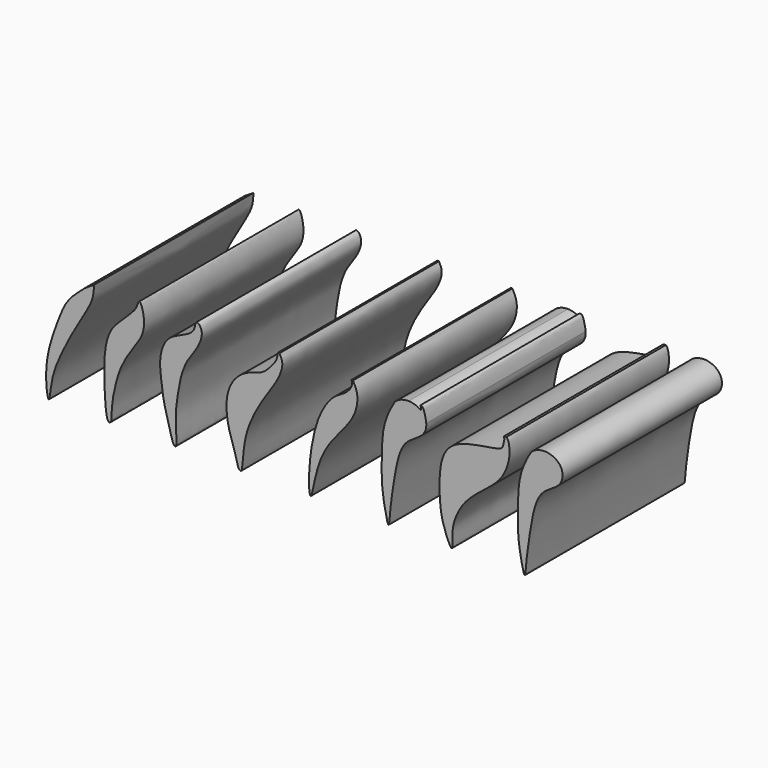
from build123d import *

# Parameters (mm, degrees)
F1_DEPTH = 100


with BuildPart() as f1:
    # F0 (on Front) → F1 (new body)
    with BuildSketch(Plane.XZ):
        with BuildLine():
            add(Edge.make_bspline(
                [(25.5741346627, 58), (26.2589779969, 56.7577294477), (27.910715962, 53.7609880199), (24.6626342032, 45.377314309), (18.6096341865, 37.0585035761), (12.3320952042, 26.8005020667), (8.2630159776, 15.9768924199), (7.3391535803, 6.6730465457), (6.7546467987, 0.010524349), (6.3428331116, -0.2278938983), (4.8045475946, -0.3205295155), (3.4254539284, 7.5072897068), (-0.6046011679, 17.2207248031), (-1.7124861098, 30.5713481522), (2.8905381396, 40.3868291903), (10.2046750861, 44.9644087063), (16.7899424332, 46.209579335), (20.4906142468, 49.7253554704), (23.4815286437, 53.4406232279), (24.1061615926, 54.8570770653), (24.5948787013, 56.6112866527), (24.7289741609, 57.5947558811), (24.750592187, 58)],
                knots=[0, 0, 0, 0, 0.0430484574, 0.1023065266, 0.1694973148, 0.2410021387, 0.3107164976, 0.3763065827, 0.4260262348, 0.4373130318, 0.4565333756, 0.5104272604, 0.5801350706, 0.6545666354, 0.7207534646, 0.7799279806, 0.8322242657, 0.8788082629, 0.9229425964, 0.9484576314, 0.9757704895, 1, 1, 1, 1], degree=3))
            Line((25.5741346627, 58), (24.750592187, 58))
        make_face()
    extrude(amount=F1_DEPTH)


with BuildPart() as f1b:
    # F0 (on Front) → F1, piece 2 (new body)
    with BuildSketch(Plane.XZ):
        with BuildLine():
            add(Edge.make_bspline(
                [(-15.1638528332, 58), (-14.3183641246, 57.4564787091), (-12.1957800205, 53.7753422118), (-16.4460960883, 45.2586939027), (-21.2015741198, 39.6233844542), (-24.3250495155, 30.8782720381), (-25.8281756765, 20.6349995466), (-26.9437462257, 12.2123870458), (-25.6029813152, -0.337263726), (-27.8493822142, -0.2110202709), (-30.0973698834, 9.4091570047), (-32.655422968, 17.8248855184), (-33.4948580907, 25.1714518319), (-34.3991238734, 31.5841779352), (-34.3542362796, 38.6535596746), (-31.4115485002, 46.2399746195), (-25.4532757534, 49.3210992688), (-20.8366380571, 51.074512827), (-16.7013927989, 54.0933069754), (-16.7999230417, 58.3521920126), (-15.6047452773, 58.2834271208), (-15.1638528332, 58)],
                knots=[0, 0, 0, 0, 0.0427690127, 0.1054206091, 0.162978175, 0.2256297884, 0.2916273709, 0.357192435, 0.426509371, 0.444010105, 0.5067150331, 0.5720494948, 0.6277003322, 0.6803638017, 0.7357404797, 0.7936936621, 0.8462362865, 0.89306145, 0.9389530723, 0.9776974733, 1, 1, 1, 1], degree=3))
        make_face()
    extrude(amount=F1_DEPTH)


with BuildPart() as f1c:
    # F0 (on Front) → F1, piece 3 (new body)
    with BuildSketch(Plane.XZ):
        with BuildLine():
            add(Edge.make_bspline(
                [(-44.695880264, 58), (-44.0333348094, 58.0514506615), (-42.0414356916, 52.3109476936), (-42.3890297506, 43.6364961869), (-48.4656660633, 35.9725426066), (-54.364303451, 26.1622514636), (-57.2092434141, 15.9602991131), (-58.9086657051, 5.9711423816), (-58.4909429156, -0.2363763838), (-61.3025483048, -0.5216727764), (-62.1461596693, 12.2762135161), (-62.487123232, 20.9935662968), (-62.0422168537, 33.7612819937), (-58.7121266474, 42.1305241936), (-53.2121811001, 47.0803069766), (-48.938925031, 51.4377005179), (-46.0987414206, 54.3880715757), (-45.2255758414, 57.9588659349), (-44.695880264, 58)],
                knots=[0, 0, 0, 0, 0.0522501972, 0.1212774991, 0.191717995, 0.2688076663, 0.3436109457, 0.4181777532, 0.4706197704, 0.4943188727, 0.5709517283, 0.6443507998, 0.7244369714, 0.7924484459, 0.8539389921, 0.9098614277, 0.9582267176, 1, 1, 1, 1], degree=3))
        make_face()
    extrude(amount=F1_DEPTH)


with BuildPart() as f1d:
    # F0 (on Front) → F1, piece 4 (new body)
    with BuildSketch(Plane.XZ):
        with BuildLine():
            add(Edge.make_bspline(
                [(-67.4195289612, 58), (-67.4839315315, 56.2128277838), (-67.8178441128, 51.901827265), (-70.8159069149, 45.7754936445), (-77.9159692905, 34.2148583409), (-83.5957450749, 23.1469062744), (-89.1466598636, 10.5535908166), (-89.7118057668, -1.703925442), (-91.2278463379, 2.2835407221), (-91.9518555978, 12.1401155151), (-90.0694061039, 24.0919526722), (-85.8295171261, 35.5546262197), (-81.7698366444, 46.424113915), (-75.0003900734, 52.4833533462), (-72.8395562071, 54.3597379192), (-72.0108300447, 55.0814382732)],
                knots=[0, 0, 0, 0, 0.061725326, 0.1287703564, 0.2225641724, 0.3142680639, 0.4142831062, 0.4910076281, 0.5244438307, 0.6058906047, 0.6967422878, 0.7866754537, 0.8744111275, 0.9502843706, 1, 1, 1, 1], degree=3))
            Line((-67.4195289612, 58), (-72.0108300447, 55.0814382732))
        make_face()
    extrude(amount=F1_DEPTH)


with BuildPart() as f1e:
    # F0 (on Front) → F1, piece 5 (new body)
    with BuildSketch(Plane.XZ):
        with BuildLine():
            add(Edge.make_bspline(
                [(62.4780133367, 58), (63.3699930678, 56.298139286), (65.4823505068, 52.2179681611), (63.5948494852, 42.0222916399), (56.047566957, 33.1436200276), (48.8780490033, 24.3447602685), (43.8805505478, 13.0301299731), (41.4726530197, -2.5959626325), (40.1577207036, 3.5393088267), (40.5978392545, 14.897597573), (42.3827523371, 27.1333093783), (45.861181713, 38.7715837375), (51.9861893031, 47.5881711447), (56.8699204706, 50.0396225174), (59.3449059353, 51.7308702659), (61.0007589529, 53.7226352936), (61.3920983617, 54.3919293677)],
                knots=[0, 0, 0, 0, 0.0596541687, 0.1346482647, 0.2168802744, 0.2968969758, 0.3874197563, 0.4695421995, 0.5083981289, 0.5917400474, 0.6779915465, 0.7623989593, 0.8400126268, 0.8943627074, 0.9426874829, 0.9641971705, 0.9641971705, 0.9641971705, 0.9641971705], degree=3))
            Line((62.4780133367, 58), (61.6970025003, 58))
            add(Edge.make_bspline(
                [(61.3920983617, 54.3919293677), (62.0434819806, 55.5059679395), (62.3660583453, 56.7746345533), (61.6970025003, 58)],
                knots=[0.9641971705, 0.9641971705, 0.9641971705, 0.9641971705, 1, 1, 1, 1], degree=3))
        make_face()
        with BuildLine():
            add(Edge.make_bspline(
                [(61.6970025003, 58), (62.238190319, 56.9048186501), (62.1517804278, 55.8522192245), (61.3920983617, 54.3919293677)],
                knots=[0, 0, 0, 0, 3.6209308502, 3.6209308502, 3.6209308502, 3.6209308502], degree=3))
            add(Edge.make_bspline(
                [(61.3920983617, 54.3919293677), (62.0434819806, 55.5059679395), (62.3660583453, 56.7746345533), (61.6970025003, 58)],
                knots=[0.9641971705, 0.9641971705, 0.9641971705, 0.9641971705, 1, 1, 1, 1], degree=3))
        make_face()
    extrude(amount=F1_DEPTH)


with BuildPart() as f1f:
    # F0 (on Front) → F1, piece 6 (new body)
    with BuildSketch(Plane.XZ):
        with BuildLine():
            add(Edge.make_bspline(
                [(90.3791714734, 58), (92.553272747, 57.9717829429), (94.9218128289, 57.1938016621), (96.6419279575, 55.8004453778)],
                knots=[0, 0, 0, 0, 0.0518914352, 0.0518914352, 0.0518914352, 0.0518914352], degree=3))
            add(Edge.make_bspline(
                [(99.2298681775, 50.9871448838), (99.3807148469, 49.3812257082), (98.3364106441, 44.6243885113), (89.9578540014, 41.2219816828), (85.3077102251, 33.6961578275), (82.8545184398, 19.7344626085), (80.9988193918, 6.7586668869), (80.5188131678, -3.2336346069), (77.8782148455, 9.0591881661), (76.7056937387, 18.2716360534), (76.8533267662, 32.0748616611), (77.6058850757, 44.861607514), (82.8299441616, 54.4889076863), (84.357354032, 56.5436942931), (87.9440561605, 58.0316046859), (90.3791714734, 58)],
                knots=[0.0968781188, 0.0968781188, 0.0968781188, 0.0968781188, 0.1356665503, 0.2080476064, 0.276852742, 0.3656957578, 0.4568862831, 0.5110341684, 0.5776983663, 0.655798377, 0.7425082995, 0.82959111, 0.9048625863, 0.9418786834, 1, 1, 1, 1], degree=3))
            add(Edge.make_bspline(
                [(96.6419279575, 55.8004453778), (97.2319274284, 55.3225241871), (98.5303458972, 53.9315821155), (99.1241354293, 52.1127795996), (99.2298681775, 50.9871448838)],
                knots=[0.0518914352, 0.0518914352, 0.0518914352, 0.0518914352, 0.069690197, 0.0968781188, 0.0968781188, 0.0968781188, 0.0968781188], degree=3))
        make_face()
        with BuildLine():
            add(Edge.make_bspline(
                [(96.6419279575, 55.8004453778), (96.5816300968, 56.1616346322), (96.6210851784, 56.6589577672), (96.5442886845, 57.2857038613), (96.3788388717, 57.7387515326), (96.2431453979, 58)],
                knots=[0, 0, 0, 0, 0.3625650416, 0.6589288762, 1, 1, 1, 1], degree=3))
            add(Edge.make_bspline(
                [(96.6419279575, 55.8004453778), (97.2319274284, 55.3225241871), (98.5303458972, 53.9315821155), (99.1241354293, 52.1127795996), (99.2298681775, 50.9871448838)],
                knots=[0.0518914352, 0.0518914352, 0.0518914352, 0.0518914352, 0.069690197, 0.0968781188, 0.0968781188, 0.0968781188, 0.0968781188], degree=3))
            add(Edge.make_bspline(
                [(99.2298681775, 50.9871448838), (99.073613904, 52.9070941761), (98.11247924, 56.4807173261), (97.3830816238, 58), (96.2431453979, 58)],
                knots=[0, 0, 0, 0, 0.6109284389, 1, 1, 1, 1], degree=3))
        make_face()
    extrude(amount=F1_DEPTH)


with BuildPart() as f1g:
    # F0 (on Front) → F1, piece 7 (new body)
    with BuildSketch(Plane.XZ):
        with BuildLine():
            add(Edge.make_bspline(
                [(139.4222974777, 58), (140.5351558484, 57.3135050212), (141.4426667073, 51.6741901411), (140.2285794272, 45.4152743525), (136.3513313953, 36.9367928975), (124.8398704085, 28.7876106586), (116.6385834573, 20.8947724161), (112.7569436817, 11.5772468195), (112.2340906486, 6.5419567802), (112.8808734446, -3.8010117817), (107.1321717542, 9.6370954415), (105.8193913696, 19.6148135392), (105.6345530032, 36.1439928875), (110.8625199539, 45.8637473175), (121.7065113827, 49.396819138), (133.1719078221, 51.0057531881), (137.5096593056, 52.0272642827), (138.0530217262, 55.1300845134), (138.5677106097, 56.3938731463), (138.2463723421, 58)],
                knots=[0, 0, 0, 0, 0.0500226359, 0.1034172691, 0.1643621164, 0.2410693245, 0.3112613475, 0.3738153799, 0.4241844666, 0.4728691181, 0.5342975895, 0.6058321905, 0.6875407704, 0.7527085613, 0.8209119691, 0.8914194591, 0.9315251687, 0.963653077, 1, 1, 1, 1], degree=3))
            Line((139.4222974777, 58), (138.2463723421, 58))
        make_face()
    extrude(amount=F1_DEPTH)


with BuildPart() as f1h:
    # F0 (on Front) → F1, piece 8 (new body)
    with BuildSketch(Plane.XZ):
        with BuildLine():
            add(Edge.make_bspline(
                [(158.721268177, 58), (161.6410861644, 57.9621044926), (168.0078324944, 55.2557757237), (167.9442165859, 45.1383741461), (158.2999507051, 41.2219816828), (153.6498069287, 33.6961578275), (151.1966151435, 19.7344626085), (149.3409160954, 6.7586668869), (148.8609098714, -3.2336346069), (146.2203115491, 9.0591881661), (145.0477904424, 18.2716360534), (145.1954234699, 32.0748616611), (145.9479817794, 44.861607514), (151.1720408653, 54.4889076863), (152.6994507357, 56.5436942931), (156.2861528641, 58.0316046859), (158.721268177, 58)],
                knots=[0, 0, 0, 0, 0.069690197, 0.1356665503, 0.2080476064, 0.276852742, 0.3656957578, 0.4568862831, 0.5110341684, 0.5776983663, 0.655798377, 0.7425082995, 0.82959111, 0.9048625863, 0.9418786834, 1, 1, 1, 1], degree=3))
        make_face()
    extrude(amount=F1_DEPTH)


solid = Compound([f1.part, f1b.part, f1c.part, f1d.part, f1e.part, f1f.part, f1g.part, f1h.part])
